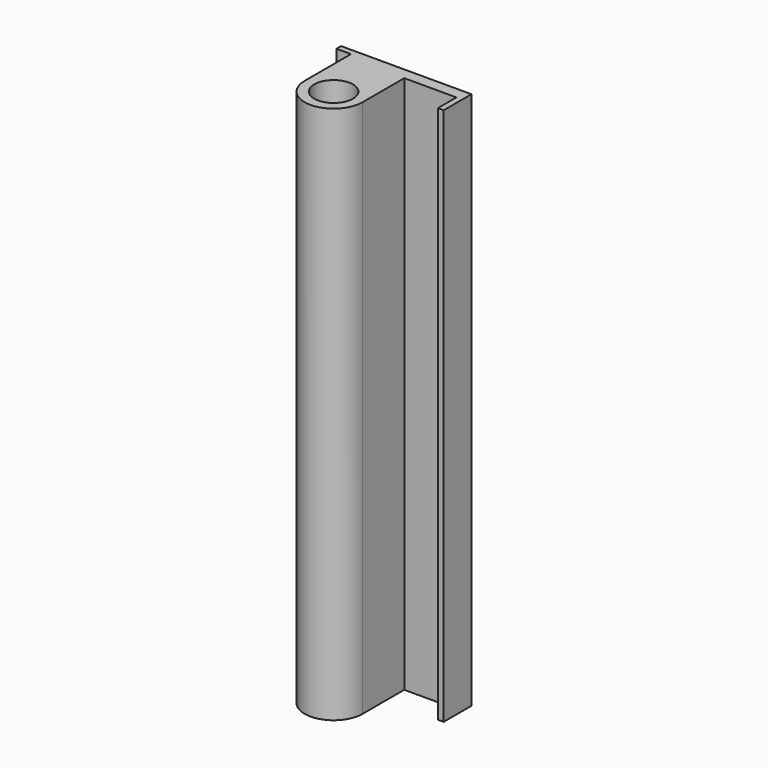
from build123d import *

# Parameters (mm, degrees)
SKETCH_R  = 3.35
PAD_DEPTH = 93


with BuildPart() as part:
    # Sketch → Pad (new body)
    with BuildSketch(Plane.XY):
        with BuildLine():
            Line((20, 1), (-2.5, 1))
            Line((-2.5, 1), (-2.5, 0))
            Line((0, 0), (-2.5, 0))
            Line((0, -10), (0, 0))
            ThreePointArc((0, -10), (5, -15), (10, -10))
            Line((10, -10), (10, -1))
            Line((10, -1), (19, -1))
            Line((19, -1), (19, -5))
            Line((19, -5), (20, -5))
            Line((20, -5), (20, 1))
        make_face()
        with Locations((5, -10)):
            Circle(SKETCH_R, mode=Mode.SUBTRACT)
    extrude(amount=PAD_DEPTH)


solid = part.part
